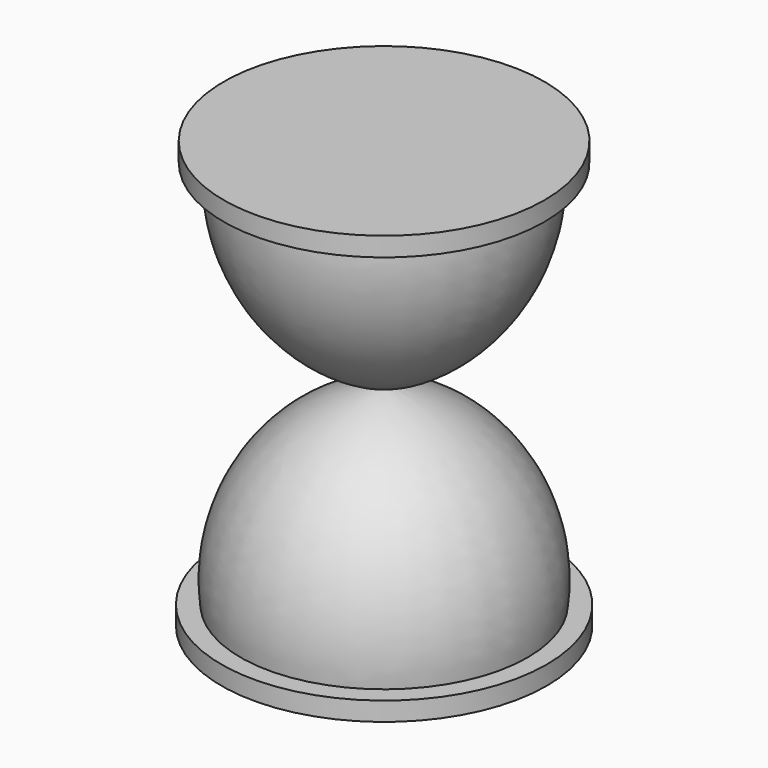
from build123d import *


with BuildPart() as f1:
    # F0 (on Front) → F1 (revolve)
    with BuildSketch(Plane.XZ):
        with BuildLine():
            Line((43.90397, 60.097147), (0, 60.097147))
            Line((0, 60.097147), (0, -59.942678))
            Line((0, -59.942678), (0.014005, 0))
            ThreePointArc((0.014005, 0), (32.807945, 22.125396), (43.90397, 60.097147))
        make_face()
        Polygon((49.641803, 66.009142), (0, 66.009142), (0, 60.097147), (43.90397, 60.097147), (49.641803, 60.097147), align=None)
        with BuildLine():
            Line((0.014005, 0), (0, -59.942678))
            Line((0, -59.942678), (44.426574, -60.285039))
            ThreePointArc((44.426574, -60.285039), (34.251123, -21.279289), (0.014005, 0))
        make_face()
        Polygon((50.326321, -60.285039), (44.426574, -60.285039), (0, -60.285039), (0, -66.103473), (50.326321, -66.103473), align=None)
    revolve(axis=Axis((0, 0, -1.073945), (0, 0, -1)))


solid = f1.part
